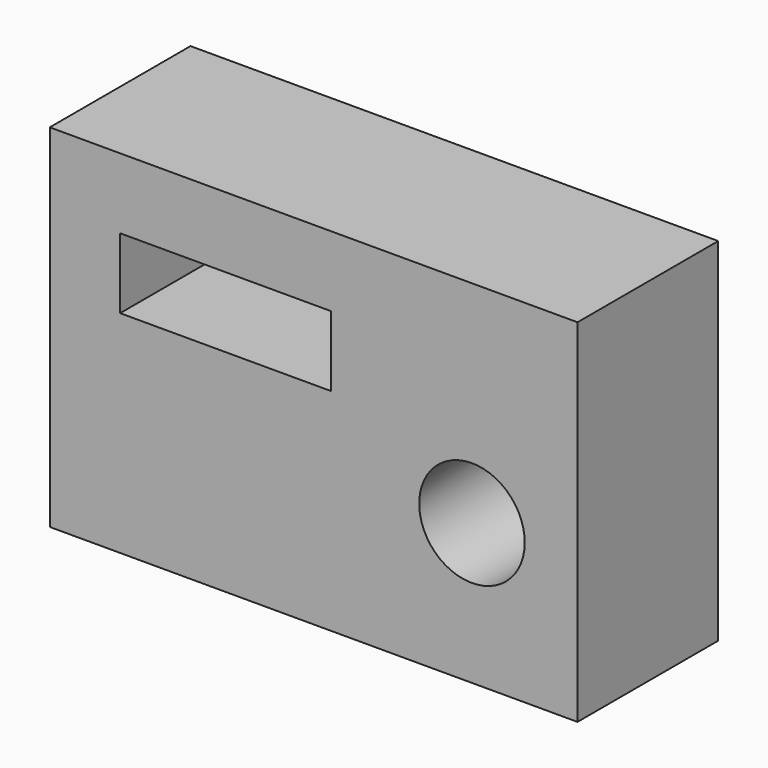
from build123d import *

# Parameters (mm, degrees)
F0_W     = 75
F0_H     = 50
F0_R     = 7.5
F0_W_2   = 30
F0_H_2   = 10
F1_DEPTH = 25


with BuildPart() as f1:
    # F0 (on Front) → F1 (new body)
    with BuildSketch(Plane.XZ):
        with Locations((-22.5, 5)):
            Rectangle(F0_W, F0_H)
        Circle(F0_R, mode=Mode.SUBTRACT)
        with Locations((-35, 15)):
            Rectangle(F0_W_2, F0_H_2, mode=Mode.SUBTRACT)
    extrude(amount=F1_DEPTH)


solid = f1.part
